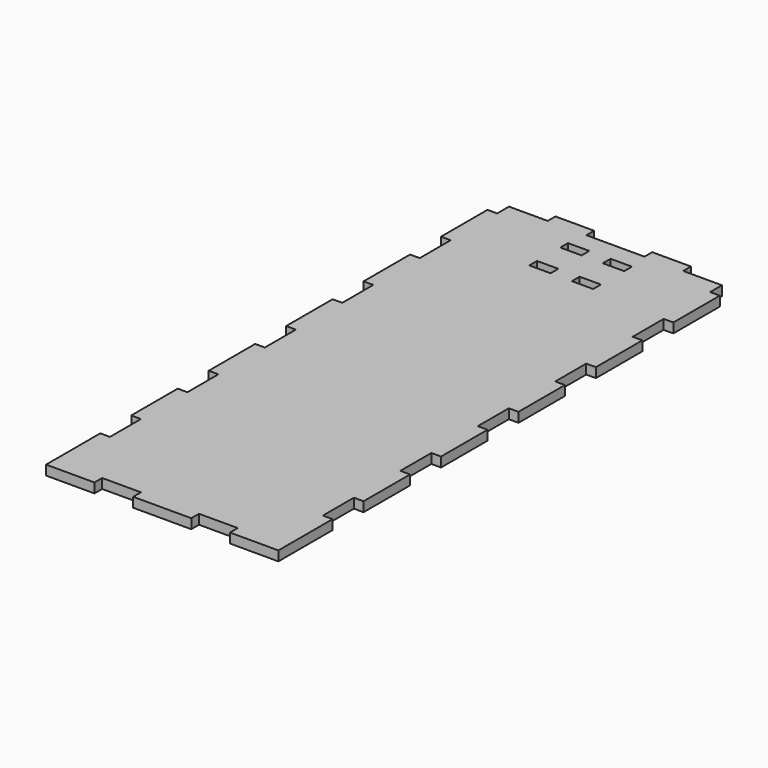
from build123d import *

# Parameters (mm, degrees)
F0_W     = 11
F0_H     = 5
F1_DEPTH = 5


with BuildPart() as f1:
    # F0 (on Top) → F1 (new body)
    with BuildSketch(Plane.XY):
        Polygon((55, 136.188651), (55, 143.811349), (35, 143.811349), (35, 148.811349), (15, 148.811349), (15, 143.811349), (-15, 143.811349), (-15, 148.811349), (-35, 148.811349), (-35, 143.811349), (-55, 143.811349), (-55, 136.188651), (-60, 136.188651), (-60, 106.188651), (-55, 106.188651), (-55, 86.188651), (-60, 86.188651), (-60, 56.188651), (-55, 56.188651), (-55, 36.188651), (-60, 36.188651), (-60, 6.188651), (-55, 6.188651), (-55, -13.811349), (-60, -13.811349), (-60, -43.811349), (-55, -43.811349), (-55, -63.811349), (-60, -63.811349), (-60, -93.811349), (-55, -93.811349), (-55, -113.811349), (-60, -113.811349), (-60, -148.811349), (-35, -148.811349), (-35, -143.811349), (-15, -143.811349), (-15, -148.811349), (15, -148.811349), (15, -143.811349), (35, -143.811349), (35, -148.811349), (60, -148.811349), (60, -113.811349), (55, -113.811349), (55, -93.811349), (60, -93.811349), (60, -63.811349), (55, -63.811349), (55, -43.811349), (60, -43.811349), (60, -13.811349), (55, -13.811349), (55, 6.188651), (60, 6.188651), (60, 36.188651), (55, 36.188651), (55, 56.188651), (60, 56.188651), (60, 86.188651), (55, 86.188651), (55, 106.188651), (60, 106.188651), (60, 136.188651), align=None)
        with Locations((-11, 111.311349)):
            Rectangle(F0_W, F0_H, mode=Mode.SUBTRACT)
        with Locations((-11, 131.311349)):
            Rectangle(F0_W, F0_H, mode=Mode.SUBTRACT)
        with Locations((11, 111.311349)):
            Rectangle(F0_W, F0_H, mode=Mode.SUBTRACT)
        with Locations((11, 131.311349)):
            Rectangle(F0_W, F0_H, mode=Mode.SUBTRACT)
    extrude(amount=F1_DEPTH)


solid = f1.part
